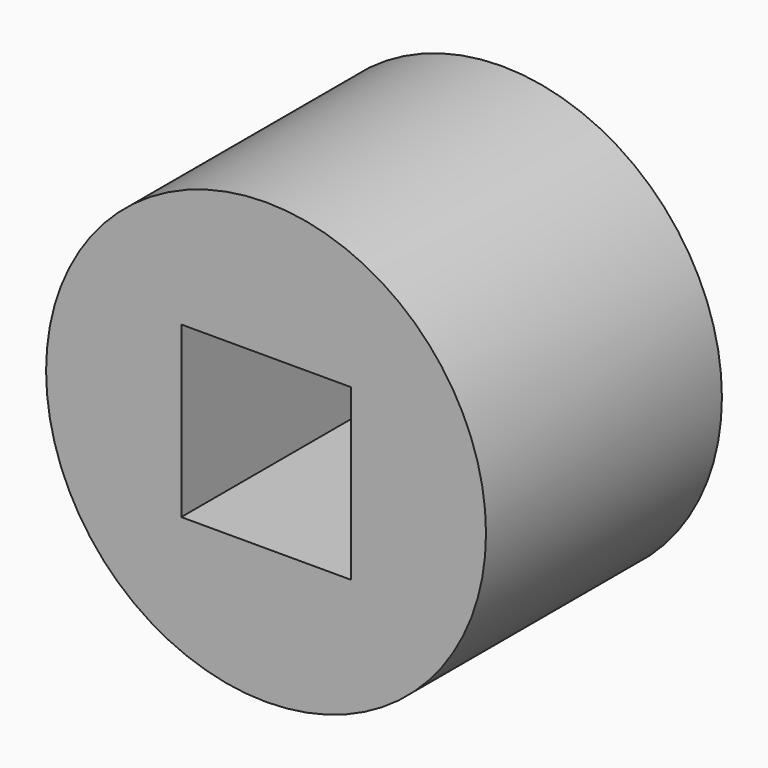
from build123d import *

# Parameters (mm, degrees)
F0_R     = 18.945006
F1_DEPTH = 25.4
F2_W     = 14.605
F2_H     = 14.605
F3_DEPTH = 25.401


with BuildPart() as f1:
    # F0 (on Front) → F1 (new body)
    with BuildSketch(Plane.XZ):
        Circle(F0_R)
    extrude(amount=F1_DEPTH)

    # F2 (on face) → F3 (cut, through all)
    with BuildSketch(Plane(origin=(0, 0, 0), x_dir=(-1, 0, 0), z_dir=(0, 1, 0))):
        Rectangle(F2_W, F2_H)
    extrude(amount=-F3_DEPTH, mode=Mode.SUBTRACT)


solid = f1.part
